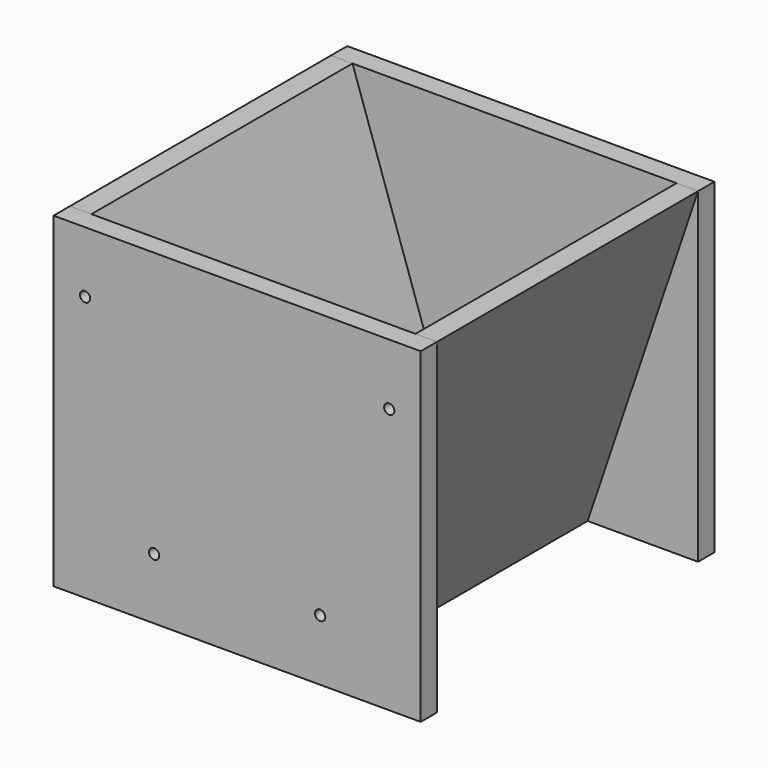
from build123d import *

# Parameters (mm, degrees)
F1_DEPTH  = 50.8
F4_R      = 12.7
F5_DEPTH  = 50.8
F7_DEPTH  = 812.8
F8_R      = 12.7
F10_DEPTH = 76.2
F9_R      = 12.7
F11_DEPTH = 76.2


with BuildPart() as f1:
    # F0 (on Front) → F1 (new body)
    with BuildSketch(Plane.XZ):
        Polygon((-457.2, 406.4), (-457.2, -406.4), (0, -406.4), (457.2, -406.4), (457.2, 406.4), (0, 406.4), align=None)
    extrude(amount=F1_DEPTH)

    # F4 (on face) → F5 (cut, through all)
    with BuildSketch(Plane(origin=(0, 0, 0), x_dir=(-1, 0, 0), z_dir=(0, 1, 0))):
        with Locations((-378.7930289355, 254)):
            Circle(F4_R)
        with Locations((-206.8229049263, -254)):
            Circle(F4_R)
        with Locations((378.7930289355, 254)):
            Circle(F4_R)
        with Locations((206.8229049263, -254)):
            Circle(F4_R)
    extrude(amount=-F5_DEPTH, mode=Mode.SUBTRACT)


with BuildPart() as f6_1:
    # F6: instance of F1
    add(f1.part.mirror(Plane.XZ.offset(457.2)))


with BuildPart() as f7:
    # F3 (on face) → F7 (new body, through all)
    with BuildSketch(Plane.XZ.offset(50.8)):
        Polygon((-128.4159338618, -406.4), (-403.5681322764, 406.4), (-457.2, 406.4), (-182.0478015853, -406.4), align=None)
    extrude(amount=F7_DEPTH)


with BuildPart() as f7b:
    # F3 (on face) → F7, piece 2 (new body, through all)
    with BuildSketch(Plane.XZ.offset(50.8)):
        Polygon((457.2, 406.4), (403.5681322764, 406.4), (128.4159338618, -406.4), (182.0478015853, -406.4), align=None)
    extrude(amount=F7_DEPTH)


with BuildPart() as f10_tool:
    # F8 (on face) → F10 (new body)
    with BuildSketch(Plane(origin=(0, -50.8, 0), x_dir=(-1, 0, 0), z_dir=(0, 1, 0))):
        with Locations((-378.7930289355, 254)):
            Circle(F8_R)
        with Locations((-206.8229049263, -254)):
            Circle(F8_R)
        with Locations((378.7930289355, 254)):
            Circle(F8_R)
        with Locations((206.8229049263, -254)):
            Circle(F8_R)
    extrude(amount=-F10_DEPTH)


with BuildPart() as f7_1:
    add(f7.part)

    # F10: cut by f10_tool
    add(f10_tool.part, mode=Mode.SUBTRACT)


with BuildPart() as f7b_1:
    add(f7b.part)

    # F10: cut by f10_tool
    add(f10_tool.part, mode=Mode.SUBTRACT)


with BuildPart() as f11_tool:
    # F9 (on face) → F11 (new body)
    with BuildSketch(Plane.XZ.offset(863.6)):
        with Locations((-378.7930289355, 254)):
            Circle(F9_R)
        with Locations((-206.8229049263, -254)):
            Circle(F9_R)
        with Locations((378.7930289355, 254)):
            Circle(F9_R)
        with Locations((206.8229049263, -254)):
            Circle(F9_R)
    extrude(amount=-F11_DEPTH)


with BuildPart() as f7_2:
    add(f7_1.part)

    # F11: cut by f11_tool
    add(f11_tool.part, mode=Mode.SUBTRACT)


with BuildPart() as f7b_2:
    add(f7b_1.part)

    # F11: cut by f11_tool
    add(f11_tool.part, mode=Mode.SUBTRACT)


solid = Compound([f1.part, f6_1.part, f7_2.part, f7b_2.part])
